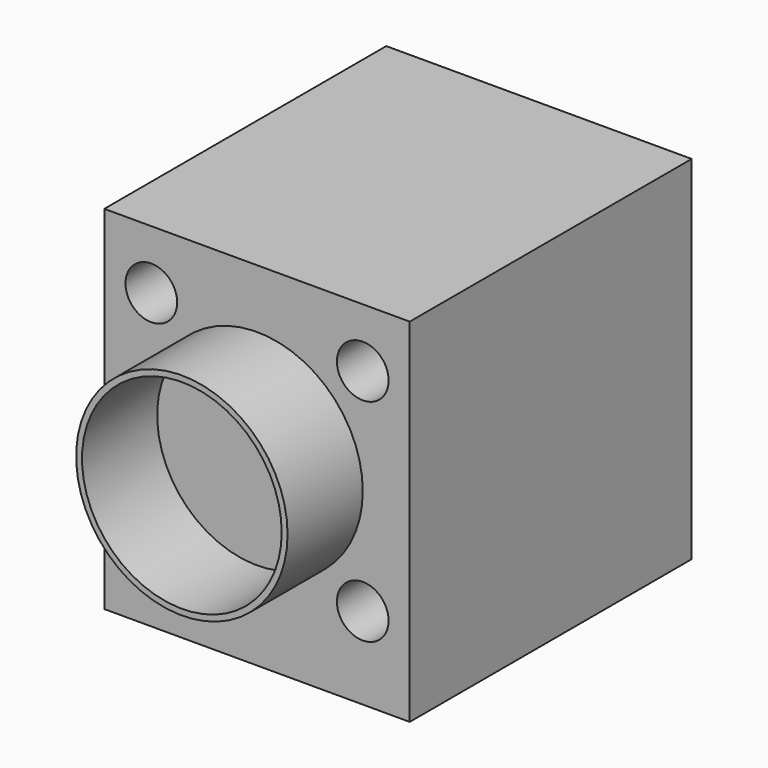
from build123d import *

# Parameters (mm, degrees)
F0_R          = 4.5
F1_DEPTH      = 4
F1_DEPTH_BACK = 15
F0_W          = 13
F0_H          = 15
F2_DEPTH      = 15
F3_D          = 2.2
F3_DEPTH      = 8
F3_TIP        = 0.6609466809
F4_D          = 8.5
F4_DEPTH      = 8
F4_TIP        = 2.5536576309
F6_D          = 2.5
F6_DEPTH      = 5
F6_TIP        = 0.7510757738


with BuildPart() as f1:
    # F0 (on Front) → F1 (new body, two sides)
    with BuildSketch(Plane.XZ) as f1_sk:
        with Locations((0, 0.5)):
            Circle(F0_R)
    extrude(amount=F1_DEPTH)
    extrude(f1_sk.sketch, amount=-F1_DEPTH_BACK)

    # F0 (on Front) → F2 (join)
    with BuildSketch(Plane.XZ):
        Rectangle(F0_W, F0_H)
        with Locations((0, 0.5)):
            Circle(F0_R, mode=Mode.SUBTRACT)
    extrude(amount=-F2_DEPTH)

    # F3
    with Locations(Plane.XZ):
        with Locations((4.5, 5), (4.5, -4), (-4.5, 5), (-4.5, -4)):
            Hole(F3_D / 2, depth=F3_DEPTH)
            with Locations((0, 0, -(F3_DEPTH + F3_TIP / 2))):  # 118° drill point
                Cone(0, F3_D / 2, F3_TIP, mode=Mode.SUBTRACT)

    # F4 (one way)
    with BuildSketch(Plane(origin=(0, 0, 0), x_dir=(1, 0, 0), z_dir=(0, 1, 0))):
        with Locations((0, -0.5)):
            Circle(F4_D / 2)
    extrude(amount=-F4_DEPTH, mode=Mode.SUBTRACT)
    with Locations(Plane(origin=(0, 0, 0), x_dir=(1, 0, 0), z_dir=(0, 1, 0))):
        with Locations((0, -0.5)):
            with Locations((0, 0, -(F4_DEPTH + F4_TIP / 2))):  # 118° drill point
                Cone(0, F4_D / 2, F4_TIP, mode=Mode.SUBTRACT)

    # F6
    with Locations(Plane(origin=(0, 0, -7.5), x_dir=(1, 0, 0), z_dir=(0, 0, -1))):
        with Locations((-3.25, -6), (3.25, -6)):
            Hole(F6_D / 2, depth=F6_DEPTH)
            with Locations((0, 0, -(F6_DEPTH + F6_TIP / 2))):  # 118° drill point
                Cone(0, F6_D / 2, F6_TIP, mode=Mode.SUBTRACT)


solid = f1.part
